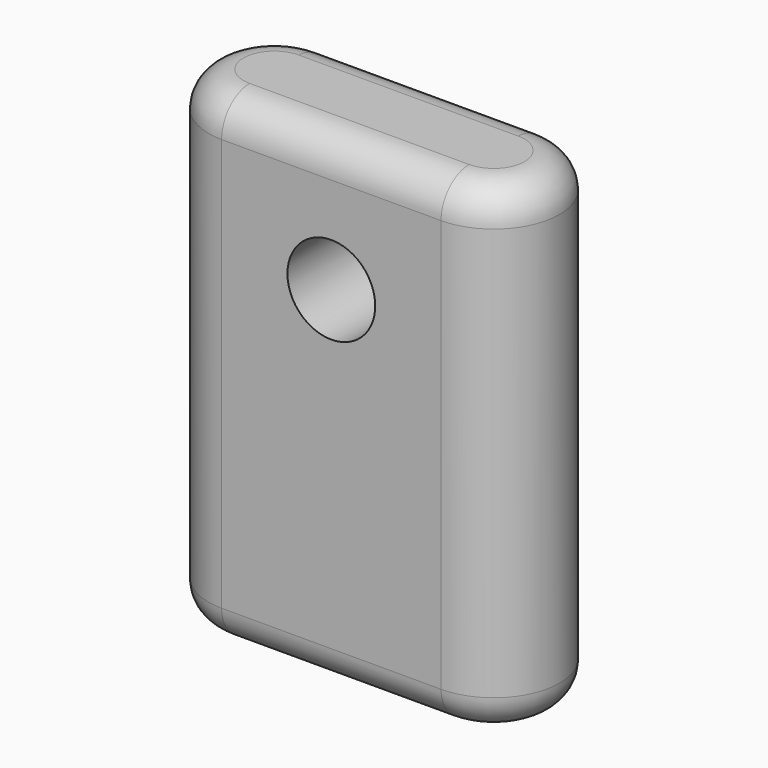
from build123d import *

# Parameters (mm, degrees)
F1_DEPTH = 69.85
F2_R     = 5.08
F3_R     = 6.35
F4_DEPTH = 19.051


with BuildPart() as f1:
    # F0 (on Top) → F1 (new body)
    with BuildSketch(Plane.XY):
        with BuildLine():
            Line((15.875, 9.525), (-15.875, 9.525))
            ThreePointArc((-15.875, 9.525), (-25.4, 0), (-15.875, -9.525))
            Line((-15.875, -9.525), (15.875, -9.525))
            ThreePointArc((15.875, -9.525), (25.4, 0), (15.875, 9.525))
        make_face()
    extrude(amount=F1_DEPTH)

    # F2
    f2_edges = [f1.edges().sort_by_distance(p)[0] for p in [
        (0, -9.525, 69.85),
        (25.4, 0, 69.85),
        (0, 9.525, 69.85),
        (-25.4, 0, 69.85),
        (0, -9.525, 0),
        (25.4, 0, 0),
        (0, 9.525, 0),
        (-25.4, 0, 0),
    ]]
    fillet(f2_edges, radius=F2_R)

    # F3 (on face) → F4 (cut, through all)
    with BuildSketch(Plane(origin=(0, 9.525, 0), x_dir=(-1, 0, 0), z_dir=(0, 1, 0))):
        with Locations((0, 50.8)):
            Circle(F3_R)
    extrude(amount=-F4_DEPTH, mode=Mode.SUBTRACT)


solid = f1.part
